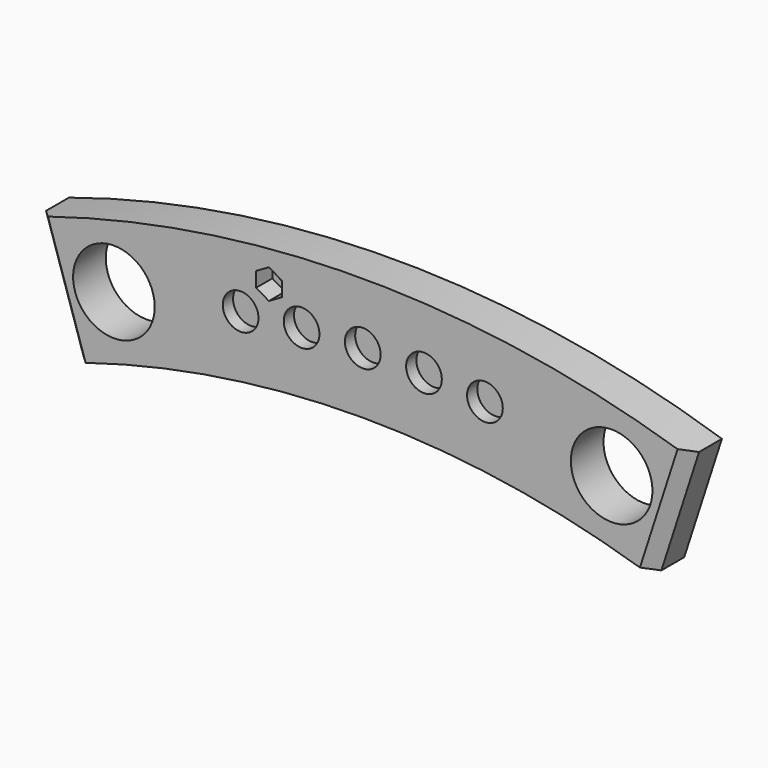
from build123d import *

# Parameters (mm, degrees)
F1_DEPTH  = 12.7
F2_R      = 5.55625
F3_DEPTH  = 4
F4_R      = 12.7
F5_DEPTH  = 12.701
F6_SIZE   = 3.81
F8_DEPTH  = 6.35
F9_R      = 2.407749
F10_DEPTH = 6.351


with BuildPart() as f1:
    # F0 (on Front) → F1 (new body)
    with BuildSketch(Plane.XZ):
        with BuildLine():
            Line((89.876923, -36.251613), (101.6, 0))
            ThreePointArc((101.6, 0), (0, 16.019351), (-101.6, 0))
            Line((-101.6, 0), (-89.876923, -36.251613))
            ThreePointArc((-89.876923, -36.251613), (0, -22.080649), (89.876923, -36.251613))
        make_face()
    extrude(amount=F1_DEPTH)

    # F2 (on face) → F3 (cut)
    with BuildSketch(Plane.XZ.offset(12.7)):
        with Locations((0, -3.030649)):
            Circle(F2_R)
        with Locations((19.041072, -3.613812)):
            Circle(F2_R)
        with Locations((38.01077, -5.361116)):
            Circle(F2_R)
        with Locations((-38.01077, -5.361116)):
            Circle(F2_R)
        with Locations((-19.041072, -3.613812)):
            Circle(F2_R)
    extrude(amount=-F3_DEPTH, mode=Mode.SUBTRACT)

    # F4 (on face) → F5 (cut, through all)
    with BuildSketch(Plane.XZ.offset(12.7)):
        with Locations((77.441715, -12.821887)):
            Circle(F4_R)
        with Locations((-77.441715, -12.821887)):
            Circle(F4_R)
    extrude(amount=-F5_DEPTH, mode=Mode.SUBTRACT)

    # F6
    f6_edges = [f1.edges().sort_by_distance(p)[0] for p in [
        (-95.738462, -12.7, -18.125807),
        (95.738462, -12.7, -18.125807),
    ]]
    chamfer(f6_edges, length=F6_SIZE)

    # F7 (on face) → F8 (cut)
    with BuildSketch(Plane.XZ.offset(12.7)):
        Polygon((-29.21, 0.382625), (-25.21, 2.692027), (-25.21, 7.310829), (-29.21, 9.62023), (-33.21, 7.310829), (-33.21, 2.692027), align=None)
    extrude(amount=-F8_DEPTH, mode=Mode.SUBTRACT)

    # F9 (on face) → F10 (cut, through all)
    with BuildSketch(Plane.XZ.offset(6.35)):
        with Locations((-29.21, 5.001428)):
            Circle(F9_R)
    extrude(amount=-F10_DEPTH, mode=Mode.SUBTRACT)


solid = f1.part
